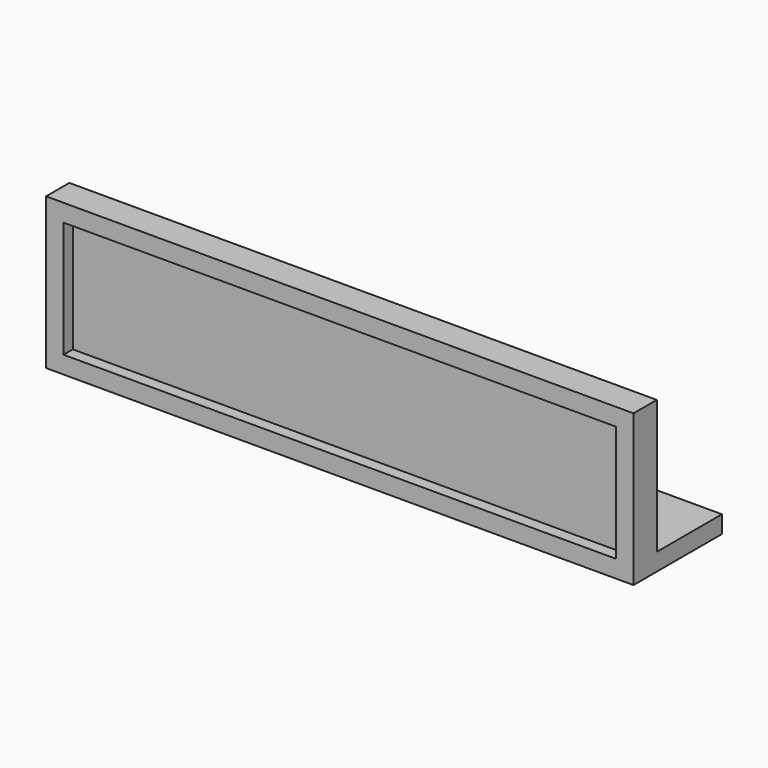
from build123d import *

# Parameters (mm, degrees)
F2_W     = 50.5
F2_H     = 13
F2_W_2   = 47.5
F2_H_2   = 10
F3_DEPTH = 2.5
F4_DEPTH = 1.5
F5_W     = 36
F5_H     = 3
F5_W_2   = 50.5
F5_H_2   = 1.5
F6_DEPTH = 7
F0_R     = 2.75
F7_DEPTH = 25
F8_R     = 1.625
F9_DEPTH = 3.501


with BuildPart() as f3:
    # F2 (on offset) → F3 (new body)
    with BuildSketch(Plane.XZ.offset(3)):
        with Locations((0, 3)):
            Rectangle(F2_W, F2_H)
        with Locations((0, 3)):
            Rectangle(F2_W_2, F2_H_2, mode=Mode.SUBTRACT)
    extrude(amount=F3_DEPTH)

    # F2 (on offset) → F4 (join)
    with BuildSketch(Plane.XZ.offset(3)):
        with Locations((0, 3)):
            Rectangle(F2_W_2, F2_H_2)
    extrude(amount=F4_DEPTH)

    # F5 (on face) → F6 (join)
    with BuildSketch(Plane(origin=(0, -3, 0), x_dir=(-1, 0, 0), z_dir=(0, 1, 0))):
        with Locations((0, 1.5)):
            Rectangle(F5_W, F5_H)
        with Locations((0, -2.75)):
            Rectangle(F5_W_2, F5_H_2)
    extrude(amount=F6_DEPTH)

    # F0 (on Top) → F7 (cut)
    with BuildSketch(Plane.XY):
        with Locations((17.5, 0)):
            Circle(F0_R)
        with Locations((-17.5, 0)):
            Circle(F0_R)
    extrude(amount=F7_DEPTH, mode=Mode.SUBTRACT)

    # F8 (on Top) → F9 (cut, through all)
    with BuildSketch(Plane.XY):
        with Locations((-17.5, 0)):
            Circle(F8_R)
        with Locations((17.5, 0)):
            Circle(F8_R)
    extrude(amount=-F9_DEPTH, mode=Mode.SUBTRACT)


solid = f3.part
